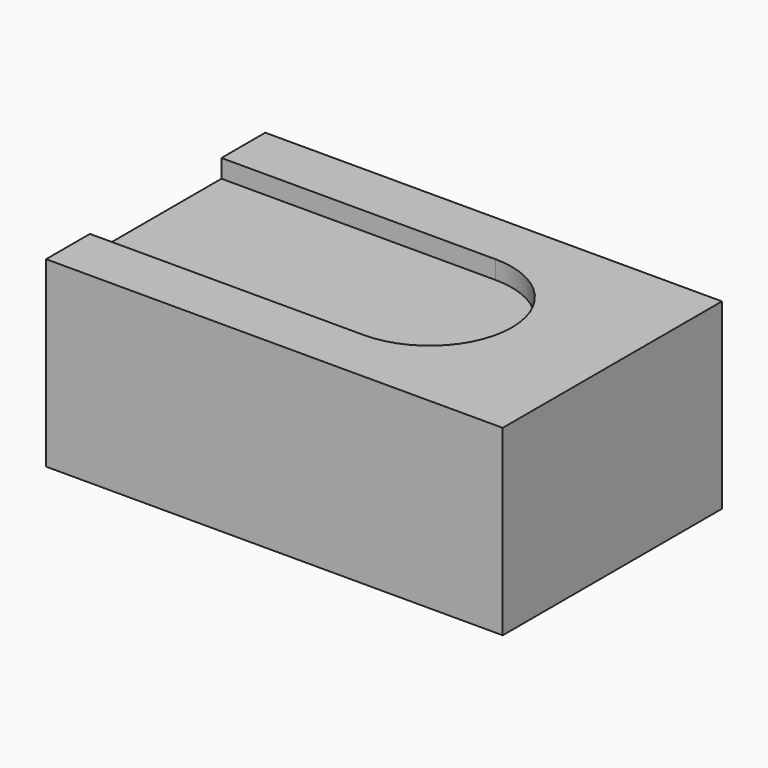
from build123d import *

# Parameters (mm, degrees)
F0_W     = 25
F0_H     = 10
F1_DEPTH = 15
F3_DEPTH = 1


with BuildPart() as f1:
    # F0 (on Front) → F1 (new body)
    with BuildSketch(Plane.XZ):
        with Locations((12.5, 5)):
            Rectangle(F0_W, F0_H)
    extrude(amount=F1_DEPTH)

    # F2 (on face) → F3 (cut)
    with BuildSketch(Plane.XY.offset(10)):
        with BuildLine():
            Line((15, -3), (0, -3))
            Line((0, -3), (0, -12))
            Line((0, -12), (15, -12))
            ThreePointArc((15, -12), (19.5, -7.5), (15, -3))
        make_face()
    extrude(amount=-F3_DEPTH, mode=Mode.SUBTRACT)


solid = f1.part
